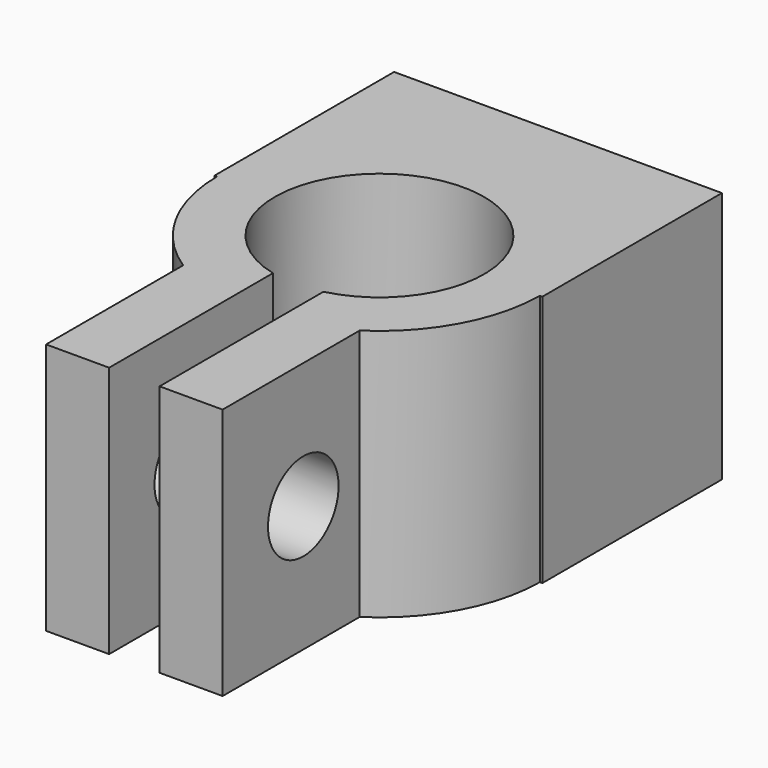
from build123d import *

# Parameters (mm, degrees)
CYLINDER003_W     = 6.4
CYLINDER003_H     = 22
CYLINDER003_ANGLE = 90
BOX004_W          = 10
BOX004_H          = 12.1
BOX004_DEPTH      = 22
CYLINDER002_W     = 6.4
CYLINDER002_H     = 22
CYLINDER002_ANGLE = 90
BOX003_W          = 10
BOX003_H          = 12.1
BOX003_DEPTH      = 22
BOX002_W          = 2
BOX002_H          = 11
BOX002_DEPTH      = 22
CYLINDER001_R     = 1.75
CYLINDER001_DEPTH = 18
CYLINDER_R        = 4.15
CYLINDER_DEPTH    = 22
BOX001_W          = 13
BOX001_H          = 21
BOX001_DEPTH      = 10


with BuildPart() as cylinder003:
    # Cylinder003 → Cylinder003 (revolve)
    with BuildSketch(Plane(origin=(25, -6.85, -3), x_dir=(-1, 0, 0), z_dir=(0, 1, 0))):
        with Locations((3.2, 11)):
            Rectangle(CYLINDER003_W, CYLINDER003_H)
    revolve(axis=Axis((25, -6.85, -3), (0, 0, 1)), revolution_arc=CYLINDER003_ANGLE)


with BuildPart() as cut004:
    # Box004 → Box004 (new body)
    with BuildSketch(Plane(origin=(11.5, -19, -3), x_dir=(1, 0, 0), z_dir=(0, 0, 1))):
        with Locations((5, 6.05)):
            Rectangle(BOX004_W, BOX004_H)
    extrude(amount=BOX004_DEPTH)

    # Cut004: cut Cylinder003
    add(cylinder003.part, mode=Mode.SUBTRACT)


with BuildPart() as cylinder002:
    # Cylinder002 → Cylinder002 (revolve)
    with BuildSketch(Plane(origin=(25, -6.85, -3), x_dir=(0, -1, 0), z_dir=(-1, 0, 0))):
        with Locations((3.2, 11)):
            Rectangle(CYLINDER002_W, CYLINDER002_H)
    revolve(axis=Axis((25, -6.85, -3), (0, 0, 1)), revolution_arc=CYLINDER002_ANGLE)


with BuildPart() as cut003:
    # Box003 → Box003 (new body)
    with BuildSketch(Plane(origin=(28.5, -19, -3), x_dir=(1, 0, 0), z_dir=(0, 0, 1))):
        with Locations((5, 6.05)):
            Rectangle(BOX003_W, BOX003_H)
    extrude(amount=BOX003_DEPTH)

    # Cut003: cut Cylinder002
    add(cylinder002.part, mode=Mode.SUBTRACT)


with BuildPart() as cube002:
    # Box002 → Box002 (new body)
    with BuildSketch(Plane(origin=(24, -21, -3), x_dir=(1, 0, 0), z_dir=(0, 0, 1))):
        with Locations((1, 5.5)):
            Rectangle(BOX002_W, BOX002_H)
    extrude(amount=BOX002_DEPTH)


with BuildPart() as cylinder001:
    # Cylinder001 → Cylinder001 (new body)
    with BuildSketch(Plane(origin=(16, -15, 5), x_dir=(0, 0, -1), z_dir=(1, 0, 0))):
        Circle(CYLINDER001_R)
    extrude(amount=CYLINDER001_DEPTH)


with BuildPart() as cylinder:
    # Cylinder → Cylinder (new body)
    with BuildSketch(Plane(origin=(25, -6.85, -3), x_dir=(1, 0, 0), z_dir=(0, 0, 1))):
        Circle(CYLINDER_R)
    extrude(amount=CYLINDER_DEPTH)


with BuildPart() as cut006:
    # Box001 → Box001 (new body)
    with BuildSketch(Plane(origin=(18.5, -19, 0), x_dir=(1, 0, 0), z_dir=(0, 0, 1))):
        with Locations((6.5, 10.5)):
            Rectangle(BOX001_W, BOX001_H)
    extrude(amount=BOX001_DEPTH)

    # Cut: cut Cylinder
    add(cylinder.part, mode=Mode.SUBTRACT)

    # Cut001: cut Cylinder001
    add(cylinder001.part, mode=Mode.SUBTRACT)

    # Cut002: cut Cube002
    add(cube002.part, mode=Mode.SUBTRACT)

    # Cut005: cut Cut003
    add(cut003.part, mode=Mode.SUBTRACT)

    # Cut006: cut Cut004
    add(cut004.part, mode=Mode.SUBTRACT)


with BuildPart() as cut006_1:
    # Cut006 placement: moved
    add(cut006.part.moved(Location((0, -2, 12))))


solid = cut006_1.part
